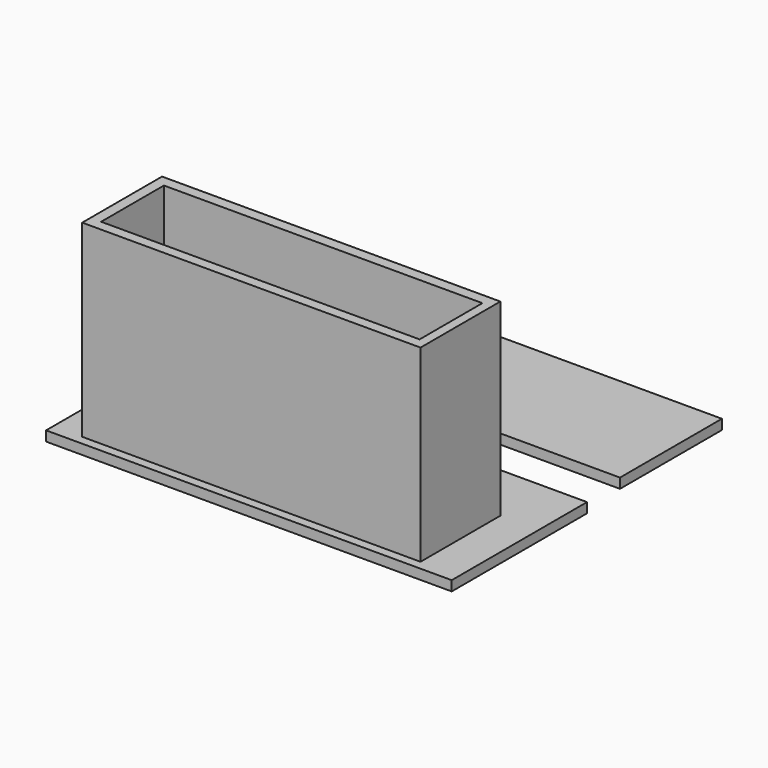
from build123d import *

# Parameters (mm, degrees)
F0_W     = 120
F0_H     = 38.515401
F1_DEPTH = 3
F0_W_2   = 122.61183
F0_H_2   = 51.130004
F0_W_3   = 102.26
F0_H_3   = 30.163097
F2_DEPTH = 3
F0_W_4   = 96.263644
F0_H_4   = 23.723034
F3_DEPTH = 60
F4_DEPTH = 3


with BuildPart() as f1:
    # F0 (on Top) → F1 (new body)
    with BuildSketch(Plane.XY):
        with Locations((0.155082, 19.2577)):
            Rectangle(F0_W, F0_H)
    extrude(amount=F1_DEPTH)


with BuildPart() as f2:
    # F0 (on Top) → F2 (new body)
    with BuildSketch(Plane.XY):
        with Locations((0.596959, -40.206776)):
            Rectangle(F0_W_2, F0_H_2)
        with Locations((-0.852168, -47.942324)):
            Rectangle(F0_W_3, F0_H_3, mode=Mode.SUBTRACT)
    extrude(amount=F2_DEPTH)

    # F0 (on Top) → F3 (join)
    with BuildSketch(Plane.XY):
        with Locations((-0.852168, -47.942324)):
            Rectangle(F0_W_3, F0_H_3)
        with Locations((-0.642894, -48.022571)):
            Rectangle(F0_W_4, F0_H_4, mode=Mode.SUBTRACT)
    extrude(amount=F3_DEPTH)

    # F0 (on Top) → F4 (join)
    with BuildSketch(Plane.XY):
        with Locations((-0.642894, -48.022571)):
            Rectangle(F0_W_4, F0_H_4)
    extrude(amount=F4_DEPTH)


solid = Compound([f1.part, f2.part])
